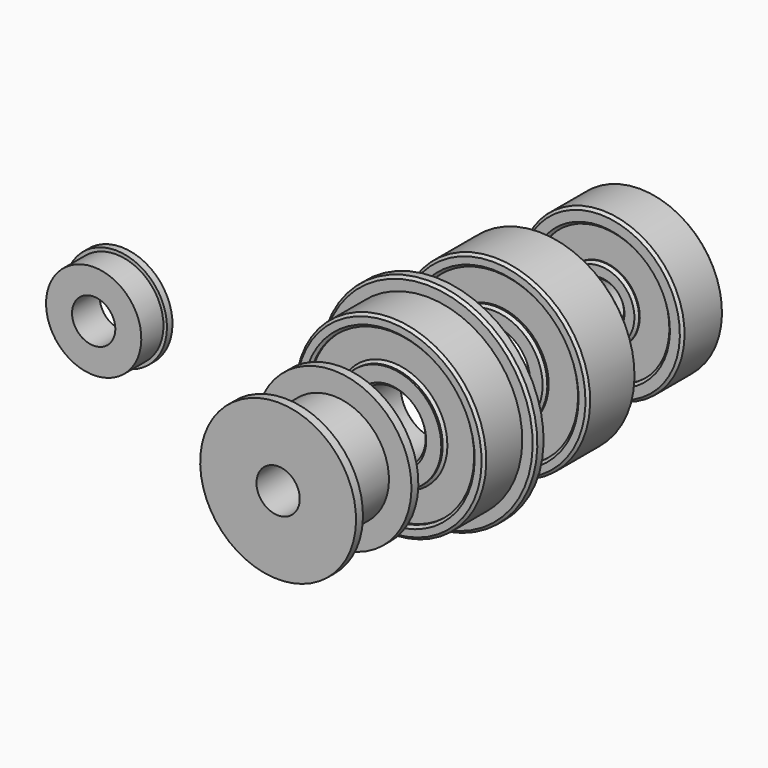
from build123d import *

# Parameters (mm, degrees)
F5_SIZE = 0.3


with BuildPart() as f1:
    # F0 (on Right) → F1 (revolve)
    with BuildSketch(Plane.YZ):
        Polygon((0, 2.5), (0, 5.9), (-0.8, 5.9), (-0.8, 5.5), (-4, 5.5), (-4, 2.5), align=None)
    revolve(axis=Axis((0, -4.489047, 0), (0, -1, 0)))


with BuildPart() as f1_1:
    # F2: moved
    add(f1.part.moved(Location((-33.7, 0, 0))))


with BuildPart() as f4:
    # F3 (on Right) → F4 (revolve)
    with BuildSketch(Plane.YZ):
        Polygon((2, 11), (-3.5, 11), (-3.5, 9.6), (-3, 9.6), (-3, 6.05), (-3.5, 6.05), (-3.5, 4), (3.5, 4), (3.5, 6.05), (3, 6.05), (3, 9.6), (3.5, 9.6), (3.5, 12.5), (2, 12.5), align=None)
        Polygon((11.5, 6.05), (11.5, 4), (18.5, 4), (18.5, 6.05), (18, 6.05), (18, 9.6), (18.5, 9.6), (18.5, 11), (11.5, 11), (11.5, 9.6), (12, 9.6), (12, 6.05), align=None)
        Polygon((27, 4.25), (27, 2.5), (33, 2.5), (33, 4.25), (32.6, 4.25), (32.6, 7.75), (33, 7.75), (33, 9.5), (27, 9.5), (27, 7.75), (27.4, 7.75), (27.4, 4.25), align=None)
    revolve(axis=Axis((0, -3.053656, 0), (0, -1, 0)))

    # F5
    f5_edges = [f4.edges().sort_by_distance(p)[0] for p in [
        (0, -3.5, -11),
        (0, -3, -6.05),
        (0, -3.5, -9.6),
        (0, -3.5, -4),
        (0, 3.5, -4),
        (0, 2, -12.5),
        (0, 3.5, -12.5),
        (0, 3.5, -9.6),
        (0, 3.5, -6.05),
        (0, 11.5, -11),
        (0, 11.5, -9.6),
        (0, 11.5, -6.05),
        (0, 18.5, -11),
        (0, 27, -9.5),
        (0, 27, -7.75),
        (0, 27, -4.25),
        (0, 33, -9.5),
        (0, 18.5, -9.6),
        (0, 18.5, -6.05),
        (0, 18.5, -4),
        (0, 33, -2.5),
        (0, 33, -4.25),
        (0, 33, -7.75),
        (0, 27, -2.5),
        (0, 11.5, -4),
    ]]
    chamfer(f5_edges, length=F5_SIZE)


with BuildPart() as f7:
    # F6 (on Right) → F7 (revolve)
    with BuildSketch(Plane.YZ):
        Polygon((-18.5, 9), (-19.5, 9), (-19.5, 2.5), (-10.5, 2.5), (-10.5, 9), (-11.5, 9), (-11.5, 6.4), (-18.5, 6.4), align=None)
    revolve(axis=Axis((0, 11.98585, 0), (0, 1, 0)))


solid = Compound([f1_1.part, f4.part, f7.part])
